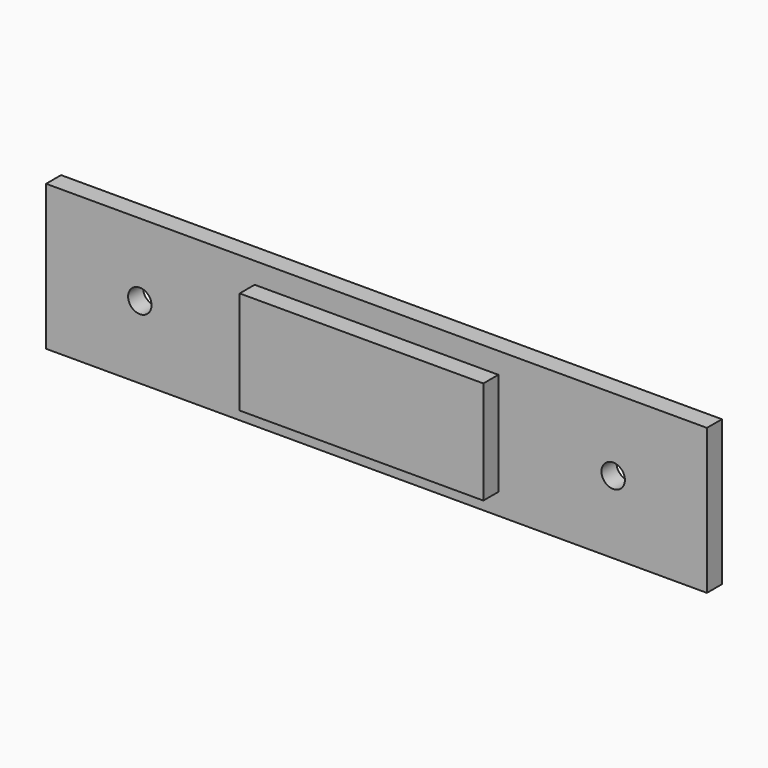
from build123d import *

# Parameters (mm, degrees)
F0_W     = 179.07
F0_H     = 39.37
F0_R     = 3.175
F0_W_2   = 66.04
F0_H_2   = 27.94
F1_DEPTH = 5.08
F2_DEPTH = 10.16


with BuildPart() as f1:
    # F0 (on Front) → F1 (new body)
    with BuildSketch(Plane.XZ):
        with Locations((89.535, 19.685)):
            Rectangle(F0_W, F0_H)
        with Locations((25.4, 19.685)):
            Circle(F0_R, mode=Mode.SUBTRACT)
        with Locations((89.535, 19.685)):
            Rectangle(F0_W_2, F0_H_2, mode=Mode.SUBTRACT)
        with Locations((153.67, 19.685)):
            Circle(F0_R, mode=Mode.SUBTRACT)
        with Locations((89.535, 19.685)):
            Rectangle(F0_W_2, F0_H_2)
    extrude(amount=F1_DEPTH)


with BuildPart() as f2:
    # F0 (on Front) → F2 (new body)
    with BuildSketch(Plane.XZ):
        with Locations((89.535, 19.685)):
            Rectangle(F0_W_2, F0_H_2)
    extrude(amount=F2_DEPTH)


solid = Compound([f1.part, f2.part])
